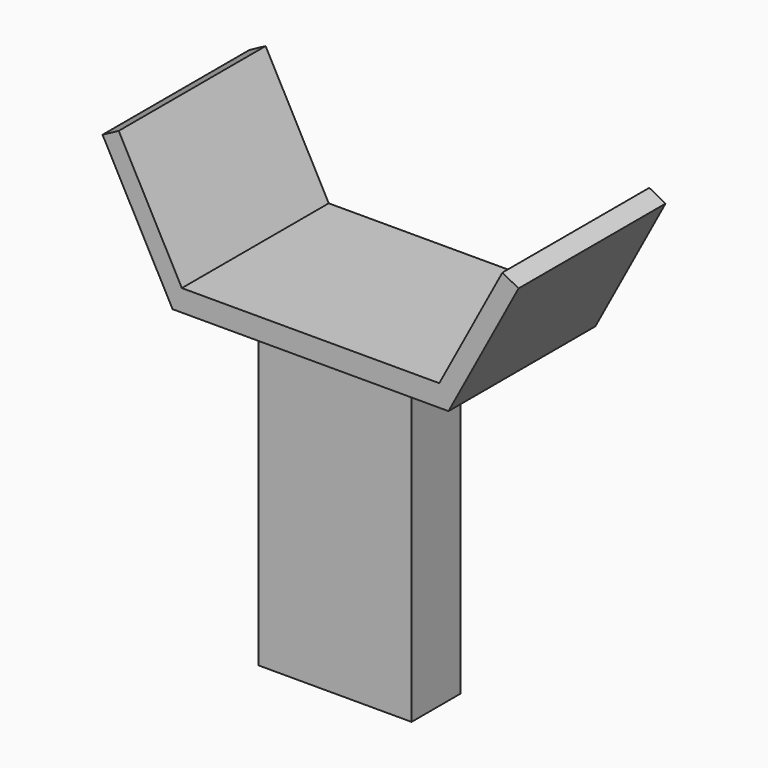
from build123d import *

# Parameters (mm, degrees)
F0_W     = 76.2
F0_H     = 30.48
F1_DEPTH = 152.4
F3_DEPTH = 76.2
F4_DEPTH = 15.24


with BuildPart() as f1:
    # F0 (on Top) → F1 (new body)
    with BuildSketch(Plane.XY):
        Rectangle(F0_W, F0_H)
    extrude(amount=F1_DEPTH)

    # F2 (on face) → F3 (join)
    with BuildSketch(Plane.XZ.offset(15.24)):
        Polygon((-68.705104, 152.4), (-38.1, 152.4), (38.1, 152.4), (68.705104, 152.4), (103.591479, 217.541933), (95.530655, 221.858859), (64.094205, 163.158833), (0, 163.158833), (-64.094205, 163.158833), (-95.530655, 221.858859), (-103.591479, 217.541933), align=None)
    extrude(amount=-F3_DEPTH)

    # F2 (on face) → F4 (join)
    with BuildSketch(Plane.XZ.offset(15.24)):
        Polygon((-68.705104, 152.4), (-38.1, 152.4), (38.1, 152.4), (68.705104, 152.4), (103.591479, 217.541933), (95.530655, 221.858859), (64.094205, 163.158833), (0, 163.158833), (-64.094205, 163.158833), (-95.530655, 221.858859), (-103.591479, 217.541933), align=None)
    extrude(amount=F4_DEPTH)


solid = f1.part
